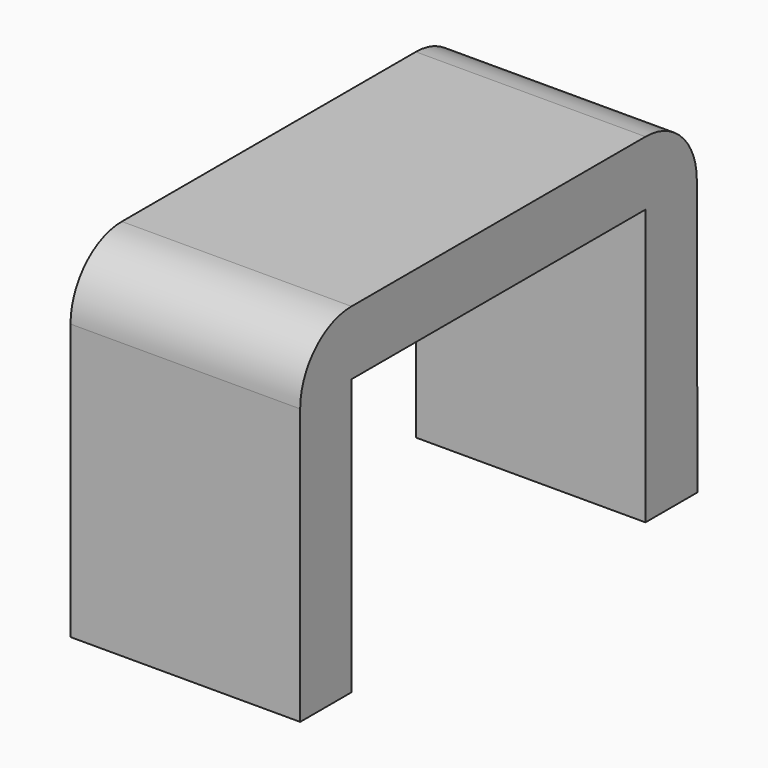
from build123d import *

# Parameters (mm, degrees)
F1_DEPTH = 25


with BuildPart() as f1:
    # F0 (on Right) → F1 (new body)
    with BuildSketch(Plane.YZ):
        with BuildLine():
            ThreePointArc((-20.008199, 9.803252), (-24.94734, 7.757393), (-26.993199, 2.818252))
            Line((-26.993199, 2.818252), (-26.993199, -27.181748))
            Line((-26.993199, -27.181748), (-20.008199, -27.181748))
            Line((-20.008199, -27.181748), (-20.008199, 2.818252))
            Line((-20.008199, 2.818252), (19.991801, 2.818252))
            Line((19.991801, 2.818252), (19.991801, -27.160191))
            Line((19.991801, -27.160191), (27.068749, -27.160191))
            Line((27.068749, -27.160191), (26.976768, 2.839668))
            ThreePointArc((26.976768, 2.839668), (24.923365, 7.764959), (19.991801, 9.803252))
            Line((19.991801, 9.803252), (-20.008199, 9.803252))
        make_face()
    extrude(amount=F1_DEPTH)


solid = f1.part
